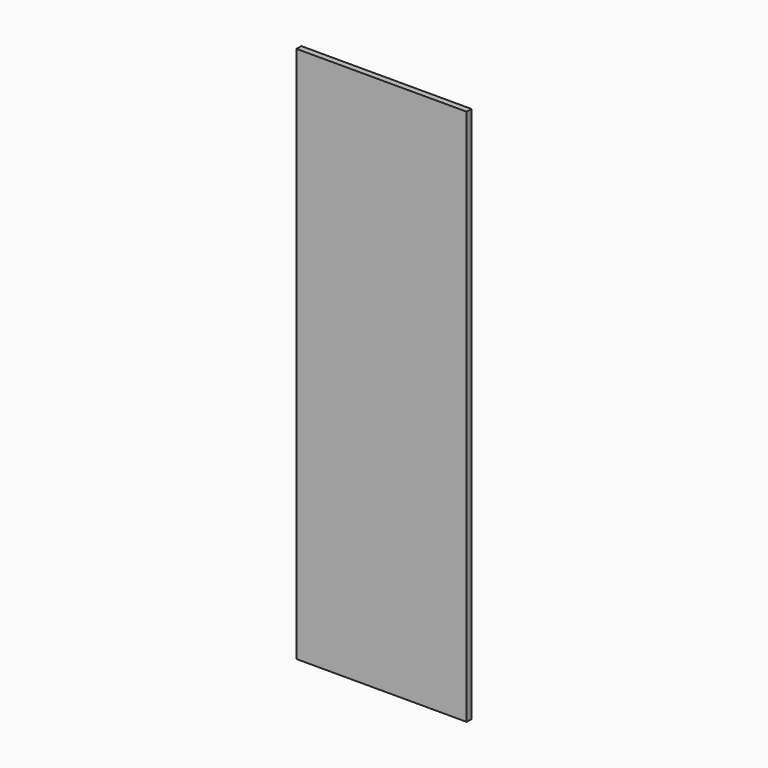
from build123d import *

# Parameters (mm, degrees)
F0_W     = 510
F0_H     = 1610
F1_DEPTH = 18
F2_R     = 17.5
F3_DEPTH = 12


with BuildPart() as f1:
    # F0 (on Front) → F1 (new body)
    with BuildSketch(Plane.XZ):
        Rectangle(F0_W, F0_H)
    extrude(amount=F1_DEPTH)

    # F2 (on face) → F3 (cut)
    with BuildSketch(Plane(origin=(0, 0, 0), x_dir=(-1, 0, 0), z_dir=(0, 1, 0))):
        with Locations((233.5, -755)):
            Circle(F2_R)
        with Locations((233.5, 0)):
            Circle(F2_R)
        with Locations((233.5, 755)):
            Circle(F2_R)
    extrude(amount=-F3_DEPTH, mode=Mode.SUBTRACT)


solid = f1.part
